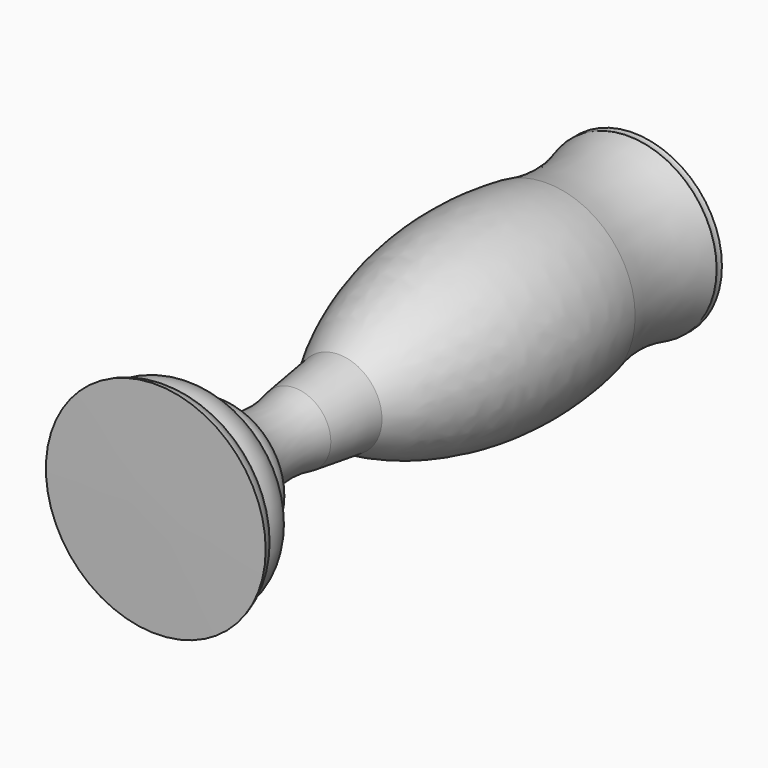
from build123d import *


with BuildPart() as f1:
    # F0 (on Top) → F1 (revolve)
    with BuildSketch(Plane.XY):
        with BuildLine():
            ThreePointArc((0, 17.73226), (-6.330719, 15.051756), (-12.983542, 16.784686))
            Line((-12.983542, 16.784686), (-12.983542, -55.593079))
            Line((-12.983542, -55.593079), (14.668528, -55.319687))
            ThreePointArc((14.668528, -55.319687), (13.97887, -53.39876), (12.754786, -51.7656))
            ThreePointArc((12.754786, -51.7656), (10.767816, -44.712348), (4.553047, -40.829944))
            ThreePointArc((4.553047, -40.829944), (3.30852, -35.24837), (-1.756558, -32.593601))
            ThreePointArc((-1.756558, -32.593601), (-4.766679, -22.27098), (-3.953439, -11.549228))
            Line((-3.953439, -11.549228), (-2.13416, 2.26957))
            ThreePointArc((-2.13416, 2.26957), (9.409172, 33.921048), (9.282979, 67.611531))
            ThreePointArc((9.282979, 67.611531), (7.451866, 80.421747), (9.282979, 93.231962))
            ThreePointArc((9.282979, 93.231962), (9.165313, 94.063921), (9.282979, 94.89588))
            ThreePointArc((9.282979, 94.89588), (8.372649, 94.257667), (7.943758, 93.231962))
            ThreePointArc((7.943758, 93.231962), (3.782961, 80.755083), (4.264397, 67.611531))
            ThreePointArc((4.264397, 67.611531), (6.165849, 42.327041), (0, 17.73226))
        make_face()
    revolve(axis=Axis((-12.983542, 19.651401, 0), (0, -1, 0)))


solid = f1.part
